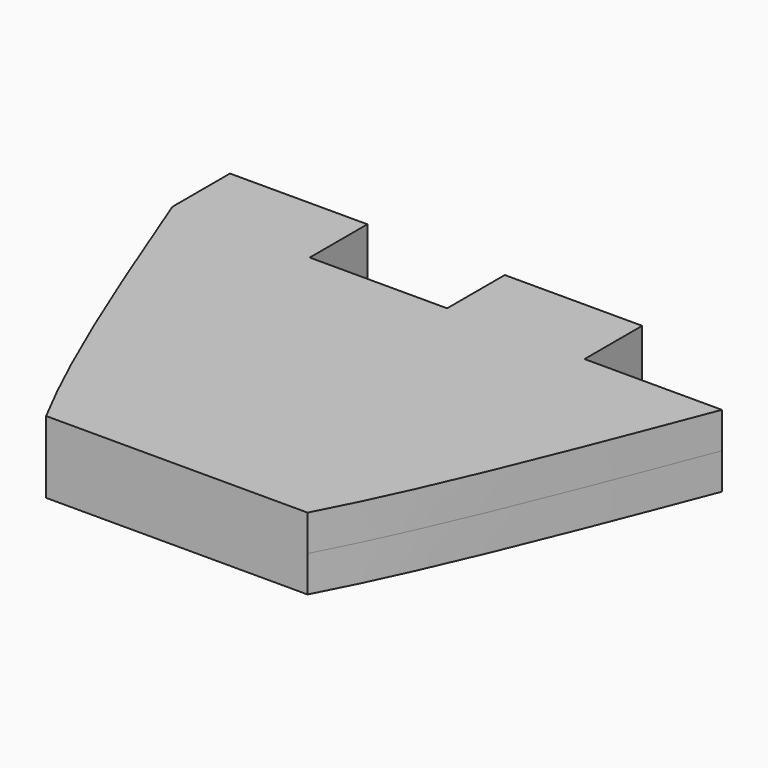
from build123d import *

# Parameters (mm, degrees)
F1_DEPTH = 1.6


with BuildPart() as f1:
    # F0 (on Top) → F1 (new body, symmetric)
    with BuildSketch(Plane.XY):
        with BuildLine():
            Line((-12.2, 3.2), (-12.2, 0))
            add(Edge.make_bspline(
                [(-12.2, 0), (-10.0682270506, -5.5041678612), (-7.9364541011, -11.0083357225), (-5.8046811517, -15)],
                knots=[0, 0, 0, 0, 0.2621032315, 0.2621032315, 0.2621032315, 0.2621032315], degree=3))
            Line((-5.8046811517, -15), (5.8046811517, -15))
            add(Edge.make_bspline(
                [(5.8046811517, -15), (7.9364541011, -11.0083357225), (10.0682270506, -5.5041678612), (12.2, 0)],
                knots=[0.7378967685, 0.7378967685, 0.7378967685, 0.7378967685, 1, 1, 1, 1], degree=3))
            Line((12.2, 0), (6.1, 0))
            Line((6.1, 0), (6.1, 3.2))
            Line((6.1, 3.2), (0, 3.2))
            Line((0, 3.2), (0, 0))
            Line((0, 0), (-6.1, 0))
            Line((-6.1, 0), (-6.1, 3.2))
            Line((-6.1, 3.2), (-12.2, 3.2))
        make_face()
    extrude(amount=F1_DEPTH, both=True)


solid = f1.part
